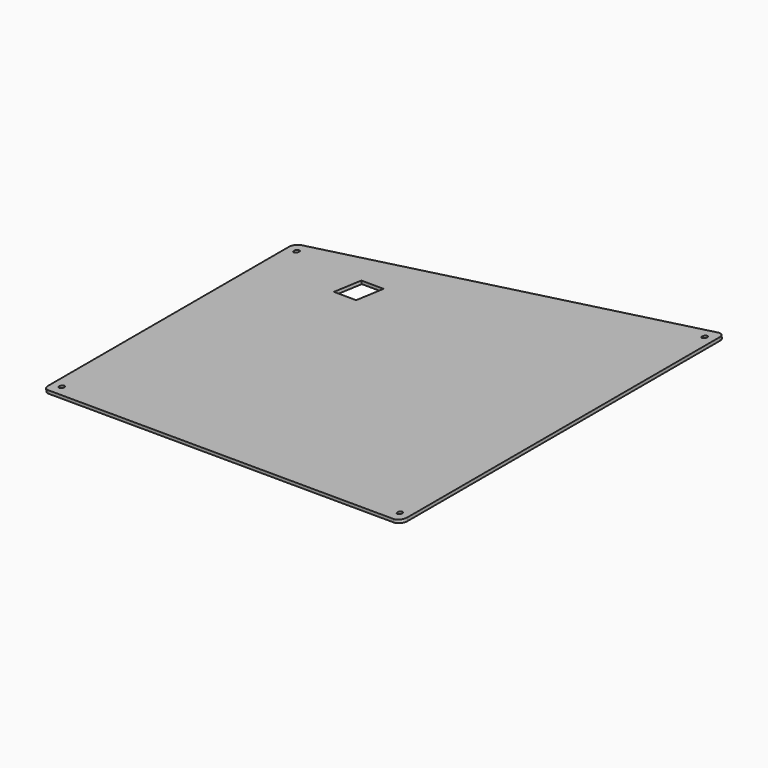
from build123d import *

# Parameters (mm, degrees)
EXTRUDE018_DEPTH                          = 25.4
EXTRUDE018_ONTO_SKETCH024_PLACEMENT_ANGLE = 8
SKETCH018_AS_DRAWN_R                      = 1.2
EXTRUDE009_DEPTH                          = 7.8
EXTRUDE009_ONTO_SKETCH018_PLACEMENT_ANGLE = 8
EXTRUDE010_DEPTH                          = 1.4
EXTRUDE010_ONTO_SKETCH019_PLACEMENT_ANGLE = 8


with BuildPart() as reset_switch_hole:
    # Sketch024 as drawn → Extrude018 (new, symmetric)
    with BuildSketch(Plane.XY):
        Polygon((-152.83455, 73.27651), (-140.412076, 70.636031), (-143.052554, 58.213557), (-155.475029, 60.854035), align=None)
    extrude(amount=EXTRUDE018_DEPTH, both=True)


with BuildPart() as reset_switch_hole_1:
    # Extrude018 onto Sketch024 placement: moved
    add(reset_switch_hole.part.moved(Location((-7.384231, 0, 52.541536))).rotate(Axis((-7.384231, 0, 52.541536), (0, -1, 0)), EXTRUDE018_ONTO_SKETCH024_PLACEMENT_ANGLE))


with BuildPart() as screw_hole_cuts:
    # Sketch018 as drawn → Extrude009 (new)
    with BuildSketch(Plane.XY):
        with Locations((-31.998318, 84.649891)):
            Circle(SKETCH018_AS_DRAWN_R)
        with Locations((-31.998318, -89.695043)):
            Circle(SKETCH018_AS_DRAWN_R)
        with Locations((156.654735, -49.595599)):
            Circle(SKETCH018_AS_DRAWN_R)
        with Locations((156.654735, 84.649891)):
            Circle(SKETCH018_AS_DRAWN_R)
    extrude(amount=EXTRUDE009_DEPTH)


with BuildPart() as screw_hole_cuts_1:
    # Extrude009 onto Sketch018 placement: moved
    add(screw_hole_cuts.part.moved(Location((39.98734, 0, 30.691416))).rotate(Axis((39.98734, 0, 30.691416), (0, 1, 0)), EXTRUDE009_ONTO_SKETCH018_PLACEMENT_ANGLE))


with BuildPart() as right_plate_solid_w_screw_holes:
    # Sketch019 as drawn → Extrude010 (new)
    with BuildSketch(Plane.XY):
        with BuildLine():
            Line((-37.205318, 86.681891), (-37.205318, -92.017095))
            ThreePointArc((-37.205318, -92.017095), (-36.028411, -94.484534), (-33.370199, -95.122714))
            Line((-33.370199, -95.122714), (159.34685, -54.159441))
            ThreePointArc((159.34685, -54.159441), (161.154172, -53.051915), (161.861735, -51.053821))
            Line((161.861735, -51.053821), (161.861735, 86.681892))
            ThreePointArc((161.861735, 86.681892), (160.931799, 88.926956), (158.686734, 89.856891))
            Line((158.686734, 89.856891), (-34.030318, 89.856891))
            ThreePointArc((-34.030318, 89.856891), (-36.275382, 88.926955), (-37.205318, 86.681891))
        make_face()
    extrude(amount=EXTRUDE010_DEPTH)


with BuildPart() as right_plate_solid_w_screw_holes_1:
    # Extrude010 onto Sketch019 placement: moved
    add(right_plate_solid_w_screw_holes.part.moved(Location((39.98734, 0, 30.691416))).rotate(Axis((39.98734, 0, 30.691416), (0, 1, 0)), EXTRUDE010_ONTO_SKETCH019_PLACEMENT_ANGLE))

    # Cut002: cut Screw Hole Cuts
    add(screw_hole_cuts_1.part, mode=Mode.SUBTRACT)


with BuildPart() as cut011:
    # Part__Mirroring003: instance of Right Plate Solid w/ Screw Holes
    add(right_plate_solid_w_screw_holes_1.part.mirror(Plane(origin=(0, 0, 0), x_dir=(0, -1, 0), z_dir=(1, 0, 0))))

    # Cut011: cut Reset Switch Hole
    add(reset_switch_hole_1.part, mode=Mode.SUBTRACT)


solid = cut011.part
